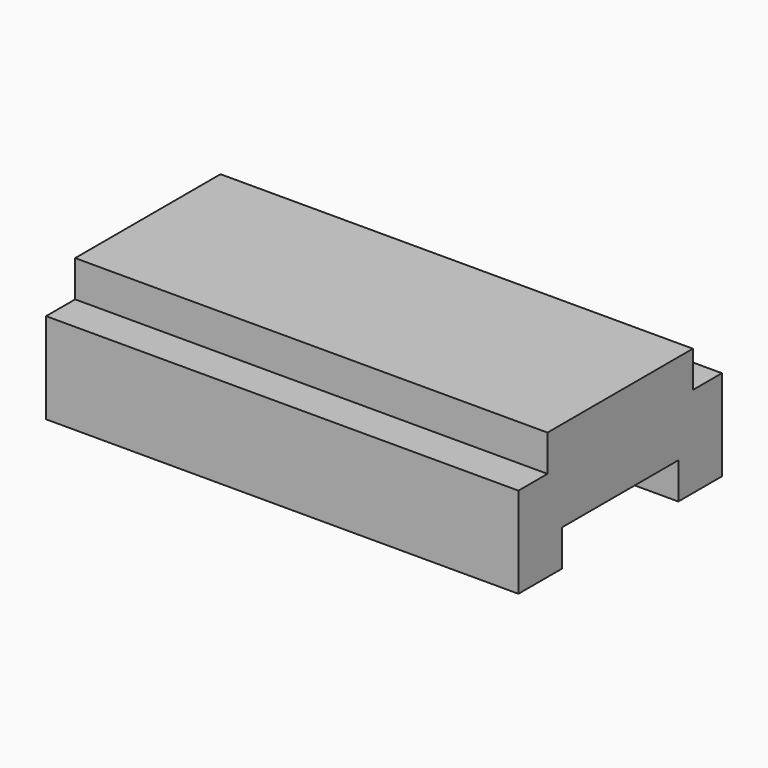
from build123d import *

# Parameters (mm, degrees)
F0_W     = 165.1
F0_H     = 44.45
F1_DEPTH = 88.9
F2_W     = 50.8
F2_H     = 12.7
F3_DEPTH = 165.1
F4_W     = 12.7
F4_H     = 12.7
F5_DEPTH = 165.1


with BuildPart() as f1:
    # F0 (on Front) → F1 (new body)
    with BuildSketch(Plane.XZ):
        with Locations((82.55, 22.225)):
            Rectangle(F0_W, F0_H)
    extrude(amount=F1_DEPTH)

    # F2 (on face) → F3 (cut)
    with BuildSketch(Plane.YZ.offset(165.1)):
        with Locations((-44.45, 6.35)):
            Rectangle(F2_W, F2_H)
    extrude(amount=-F3_DEPTH, mode=Mode.SUBTRACT)

    # F4 (on face) → F5 (cut)
    with BuildSketch(Plane.YZ.offset(165.1)):
        with Locations((-82.55, 38.1)):
            Rectangle(F4_W, F4_H)
        with Locations((-6.35, 38.1)):
            Rectangle(F4_W, F4_H)
    extrude(amount=-F5_DEPTH, mode=Mode.SUBTRACT)


solid = f1.part
